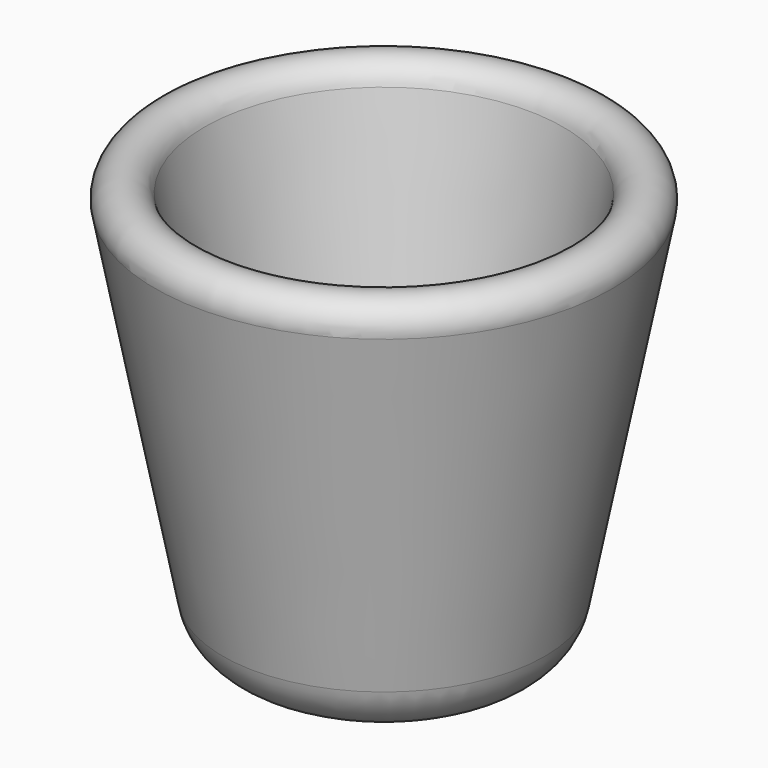
from build123d import *


with BuildPart() as f1:
    # F0 (on Front) → F1 (revolve)
    with BuildSketch(Plane.XZ):
        with BuildLine():
            ThreePointArc((24.927618, 20.524155), (16.144868, 5.791246), (0, 0))
            Line((0, 0), (0, -9.525))
            Line((0, -9.525), (19.05, -9.525))
            ThreePointArc((19.05, -9.525), (26.542628, -6.837356), (30.618591, 0))
            Line((30.618591, 0), (43.481407, 65.760779))
            ThreePointArc((43.481407, 65.760779), (39.721699, 71.348928), (34.13355, 67.589221))
            Line((34.13355, 67.589221), (24.927618, 20.524155))
        make_face()
    revolve(axis=Axis((0, 0, -4.7625), (0, 0, 1)))


solid = f1.part
